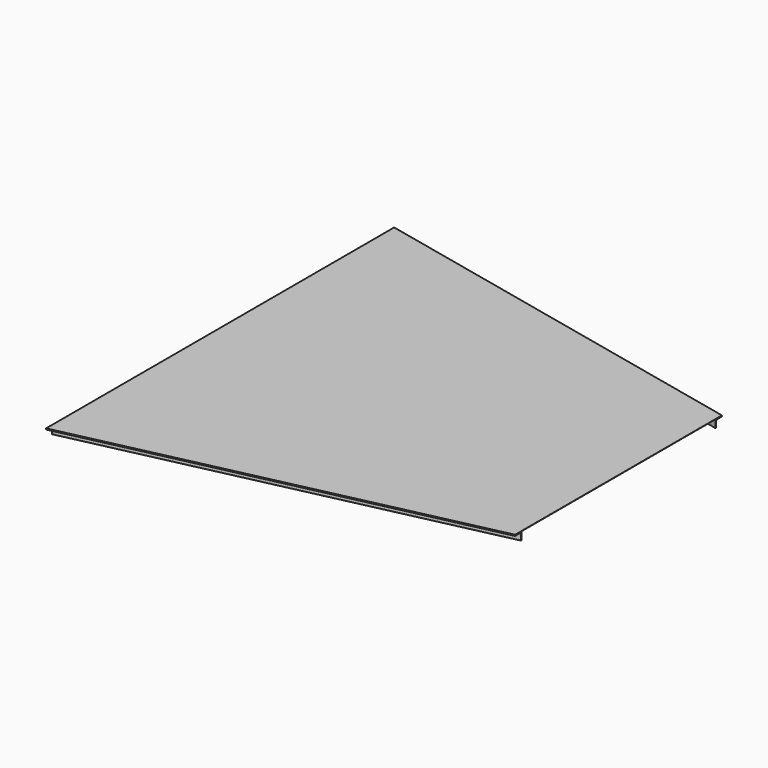
from build123d import *

# Parameters (mm, degrees)
F1_DEPTH = 19
F2_DEPTH = 2
F3_DEPTH = 0.6


with BuildPart() as f1:
    # F0 (on Top) → F1 (new body)
    with BuildSketch(Plane.XY):
        Polygon((920.027071, -297.317977), (920.027071, -295.269437), (-49.972929, -510.269437), (-49.972929, -512.317977), align=None)
        Polygon((-49.972929, 510.269437), (920.027071, 295.269437), (920.027071, 297.317977), (-49.972929, 512.317977), align=None)
    extrude(amount=-F1_DEPTH)

    # F0 (on Top) → F2 (join)
    with BuildSketch(Plane.XY):
        Polygon((-49.972929, 512.317977), (920.027071, 297.317977), (920.027071, 305), (920.027071, 314.730563), (-49.972929, 529.730563), (-49.972929, 520), align=None)
        Polygon((920.027071, -305), (920.027071, -297.317977), (-49.972929, -512.317977), (-49.972929, -520), (-49.972929, -529.730563), (920.027071, -314.730563), align=None)
    extrude(amount=-F2_DEPTH)

    # F0 (on Top) → F3 (join)
    with BuildSketch(Plane.XY):
        Polygon((920.027071, -295.269437), (920.027071, 0), (920.027071, 295.269437), (-49.972929, 510.269437), (-49.972929, 0), (-49.972929, -510.269437), align=None)
        Polygon((920.027071, -297.317977), (920.027071, -295.269437), (-49.972929, -510.269437), (-49.972929, -512.317977), align=None)
        Polygon((920.027071, -305), (920.027071, -297.317977), (-49.972929, -512.317977), (-49.972929, -520), (-49.972929, -529.730563), (920.027071, -314.730563), align=None)
        Polygon((-49.972929, 510.269437), (920.027071, 295.269437), (920.027071, 297.317977), (-49.972929, 512.317977), align=None)
        Polygon((-49.972929, 512.317977), (920.027071, 297.317977), (920.027071, 305), (920.027071, 314.730563), (-49.972929, 529.730563), (-49.972929, 520), align=None)
    extrude(amount=F3_DEPTH)


solid = f1.part
